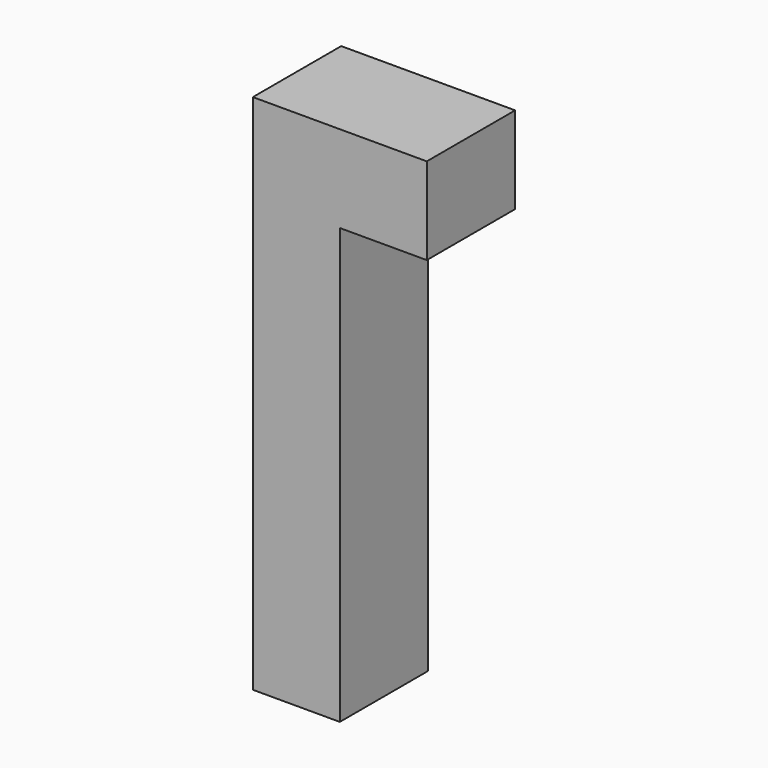
from build123d import *

# Parameters (mm, degrees)
F0_W     = 20
F0_H     = 100
F1_DEPTH = 25.4


with BuildPart() as f1:
    # F0 (on Front) → F1 (new body)
    with BuildSketch(Plane.XZ):
        Polygon((-10, 70), (-10, 50), (10, 50), (30, 50), (30, 70), align=None)
        Rectangle(F0_W, F0_H)
    extrude(amount=F1_DEPTH)


solid = f1.part
